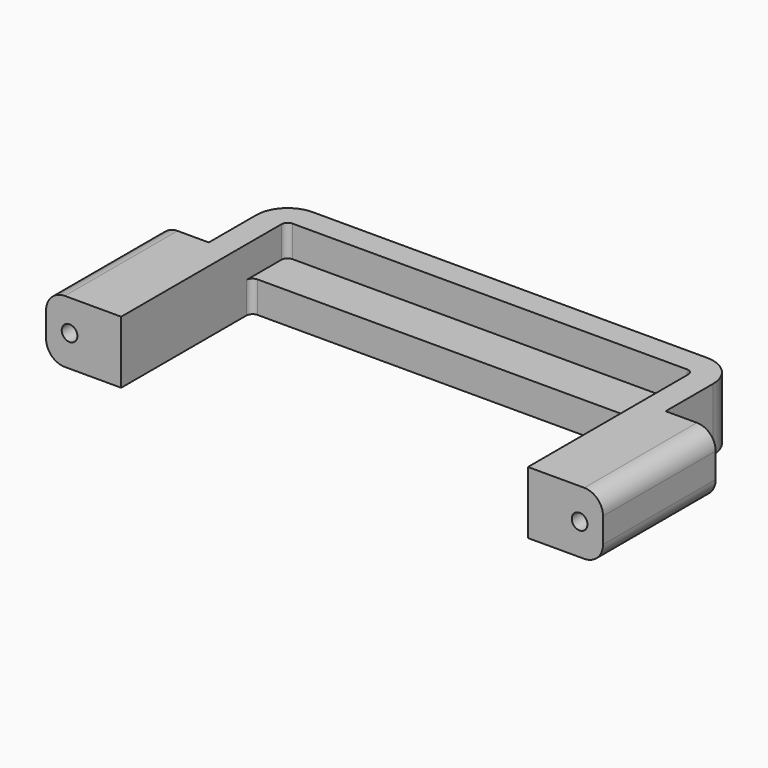
from build123d import *

# Parameters (mm, degrees)
PAD_DEPTH       = 10
SKETCH001_R     = 1.25
POCKET_DEPTH    = 22.501
POCKET001_DEPTH = 5
FILLET_R        = 3


with BuildPart() as part:
    # Sketch → Pad (new body)
    with BuildSketch(Plane.XY):
        with BuildLine():
            Line((0, 26), (31.5, 26))
            ThreePointArc((32.5, 25), (32.207107, 25.707107), (31.5, 26))
            Line((32.5, 25), (32.5, 0))
            Line((32.5, 0), (44.5, 0))
            Line((44.5, 22.5), (44.5, 0))
            Line((36.5, 22.5), (44.5, 22.5))
            Line((36.5, 32), (36.5, 22.5))
            ThreePointArc((36.5, 32), (35.035534, 35.535534), (31.5, 37))
            Line((0, 37), (31.5, 37))
            Line((0, 37), (0, 26))
        make_face()
    extrude(amount=PAD_DEPTH)

    # Sketch001 (on Face7 of Pad) → Pocket (cut, through all)
    with BuildSketch(Plane(origin=(0, 22.5, 0), x_dir=(-1, 0, 0), z_dir=(0, 1, 0))):
        with Locations((-40.75, 5)):
            Circle(SKETCH001_R)
    extrude(amount=-POCKET_DEPTH, mode=Mode.SUBTRACT)

    # Sketch002 (on Face5 of Pocket) → Pocket001 (cut)
    with BuildSketch(Plane.XY.offset(10)):
        with BuildLine():
            Line((0, 0), (32.5, 0))
            Line((32.5, 0), (32.5, 32))
            ThreePointArc((32.5, 32), (32.207107, 32.707107), (31.5, 33))
            Line((0, 33), (31.5, 33))
            Line((0, 0), (0, 33))
        make_face()
    extrude(amount=-POCKET001_DEPTH, mode=Mode.SUBTRACT)

    # Fillet
    fillet_edges = [part.edges().sort_by_distance(p)[0] for p in [
        (44.5, 11.25, 10),
        (44.5, 11.25, 0),
    ]]
    fillet(fillet_edges, radius=FILLET_R)

    # Mirrored: part across YZ


with BuildPart() as part_1:
    add(part.part)
    add(part.part.mirror(Plane.YZ))


solid = part_1.part
